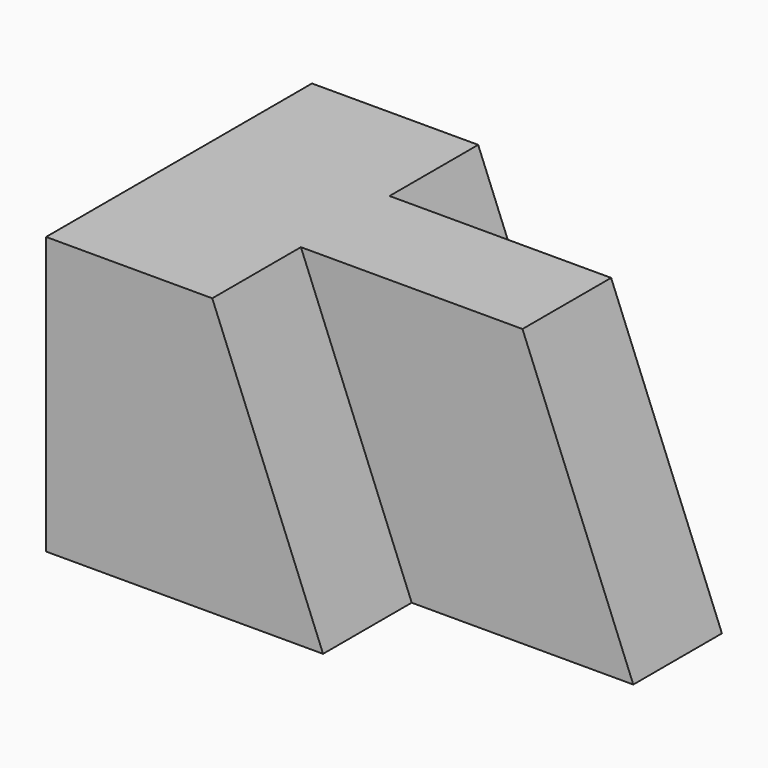
from build123d import *

# Parameters (mm, degrees)
F1_DEPTH = 76.2
F2_W     = 25.4
F2_H     = 63.5
F3_DEPTH = 114.3
F5_DEPTH = 25.4


with BuildPart() as f1:
    # F0 (on Front) → F1 (new body)
    with BuildSketch(Plane.XZ):
        Polygon((-23.121473, 14.273803), (-23.121473, -49.226197), (40.378527, -49.226197), (14.978527, 14.273803), align=None)
    extrude(amount=F1_DEPTH)

    # F2 (on face) → F3 (join)
    with BuildSketch(Plane(origin=(-23.121473, 0, 0), x_dir=(0, -1, 0), z_dir=(-1, 0, 0))):
        with Locations((38.1, -17.476197)):
            Rectangle(F2_W, F2_H)
    extrude(amount=-F3_DEPTH)

    # F4 (on face) → F5 (cut)
    with BuildSketch(Plane(origin=(0, -25.4, 0), x_dir=(-1, 0, 0), z_dir=(0, 1, 0))):
        Polygon((-91.178527, -49.226197), (-65.778527, 14.273803), (-91.178527, 14.273803), align=None)
    extrude(amount=-F5_DEPTH, mode=Mode.SUBTRACT)


solid = f1.part
